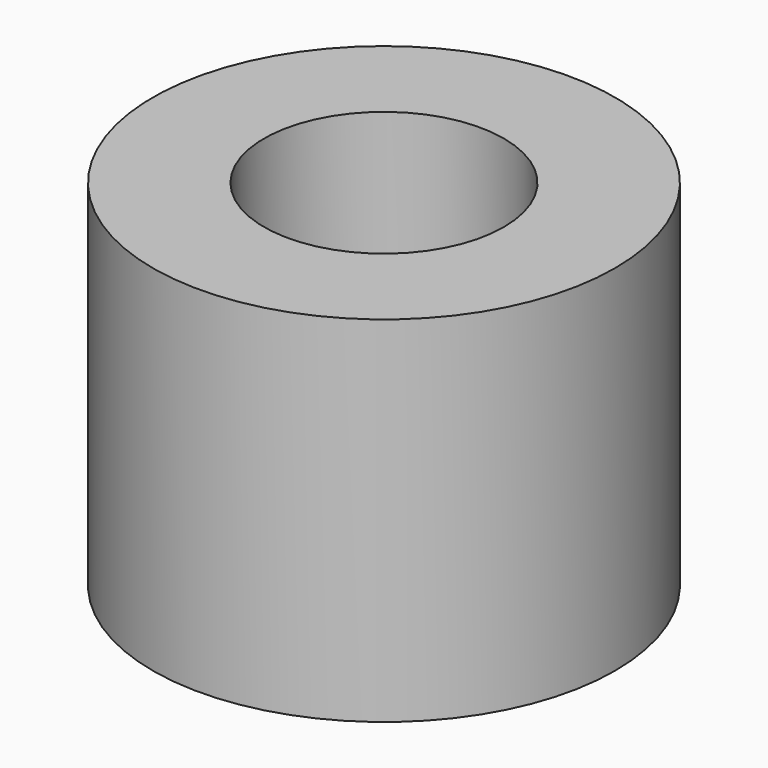
from build123d import *

# Parameters (mm, degrees)
F2_DEPTH  = 23.368
F3_R      = 19.05
F4_DEPTH  = 23.368
F5_R      = 45.72
F7_DEPTH  = 70.104
F9_R      = 23.719607247
F10_DEPTH = 41.148
F11_W     = 10.7389709225
F11_H     = 6.35
F12_DEPTH = 16.002


with BuildPart() as f1:
    # F0 (on Front) → F1 (revolve)
    with BuildSketch(Plane.XZ):
        with BuildLine():
            add(Edge.make_bspline(
                [(-16.627009958, 0), (-18.0772602361, 5.6939754485), (-8.1733478633, 12.9405576476), (-22.6632878538, 54.7008080209), (0.2552988546, 71.565440241), (-3.0527665968, 46.8541765253), (-9.3779117115, 12.9052271011), (6.197588378, 8.2035341), (11.1485021189, 0)],
                knots=[0, 0, 0, 0, 0.1338252326, 0.3556902436, 0.4938556362, 0.6372934006, 0.8353308376, 1, 1, 1, 1], degree=3))
            Line((-16.627009958, 0), (11.1485021189, 0))
        make_face()
    revolve(axis=Axis((24.1821091622, 0, 15.6086506322), (0, 0, 1)))

    # F2 (add): a face of the model
    f2_faces = [f1.faces().sort_by_distance(p)[0] for p in [
        (38.3699724001, 0, 0),
    ]]
    extrude(f2_faces, amount=-F2_DEPTH)

    # F3 (on Top) → F4 (join, through all)
    with BuildSketch(Plane.XY):
        with Locations((26.25008593, 0)):
            Circle(F3_R)
    extrude(amount=F4_DEPTH)


with BuildPart() as f6_1:
    # F6: copy of F1
    add(f1.part)


with BuildPart() as f7:
    # F5 (on Top) → F7 (new body)
    with BuildSketch(Plane.XY):
        with Locations((23.779436988, 0)):
            Circle(F5_R)
    extrude(amount=F7_DEPTH)

    # F8: cut F1
    add(f1.part, mode=Mode.SUBTRACT)

    # F9 (on face) → F10 (cut)
    with BuildSketch(Plane.XY.offset(70.104)):
        with Locations((23.779436988, 0)):
            Circle(F9_R)
    extrude(amount=-F10_DEPTH, mode=Mode.SUBTRACT)

    # F11 (on face) → F12 (join)
    with BuildSketch(Plane.XY.offset(28.956)):
        with Locations((23.7203221768, 0.0640891958)):
            Rectangle(F11_W, F11_H)
    extrude(amount=F12_DEPTH)


solid = Compound([f6_1.part, f7.part])
